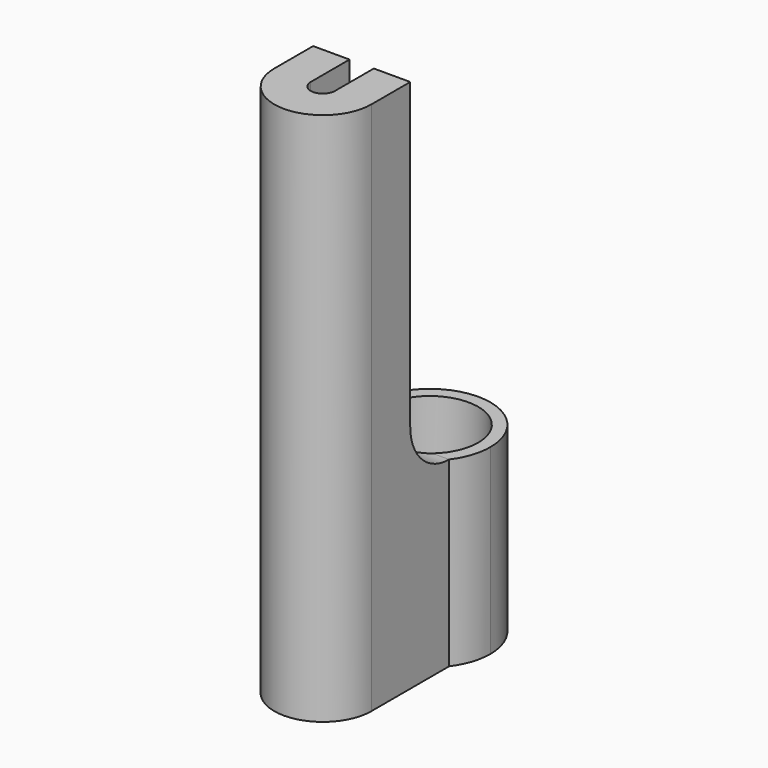
from build123d import *

# Parameters (mm, degrees)
F1_DEPTH = 15
F2_DEPTH = 15
F3_DEPTH = 44
F4_R     = 4


with BuildPart() as f1:
    # F0 (on Top) → F1 (new body)
    with BuildSketch(Plane.XY):
        with BuildLine():
            ThreePointArc((4, -3), (4.7434164903, -1.5811388301), (5, 0))
            ThreePointArc((5, 0), (-1.5811388301, 4.7434164903), (-4, -3))
            ThreePointArc((-4, -3), (-2.6742346142, -4.2247448714), (-1, -4.8989794856))
            Line((-1, -4.8989794856), (-1, -3.8729833462))
            ThreePointArc((-1, -3.8729833462), (-2.4494897428, 3.1622776602), (4, 0))
            ThreePointArc((4, 0), (3.1622776602, -2.4494897428), (1, -3.8729833462))
            Line((1, -3.8729833462), (1, -4.8989794856))
            ThreePointArc((1, -4.8989794856), (2.6742346142, -4.2247448714), (4, -3))
        make_face()
    extrude(amount=F1_DEPTH)

    # F0 (on Top) → F2 (join)
    with BuildSketch(Plane.XY):
        with BuildLine():
            Line((-1, -7), (-4, -7))
            Line((-4, -7), (-4, -11))
            ThreePointArc((-4, -11), (-3.1622776602, -8.5505102572), (-1, -7.1270166538))
            Line((-1, -7.1270166538), (-1, -7))
        make_face()
        with BuildLine():
            Line((4, -11), (4, -7))
            Line((4, -7), (1, -7))
            Line((1, -7), (1, -7.1270166538))
            ThreePointArc((1, -7.1270166538), (3.1622776602, -8.5505102572), (4, -11))
        make_face()
        with BuildLine():
            ThreePointArc((-1, -7.1270166538), (-3.1622776602, -8.5505102572), (-4, -11))
            ThreePointArc((-4, -11), (0, -15), (4, -11))
            ThreePointArc((4, -11), (3.1622776602, -8.5505102572), (1, -7.1270166538))
            Line((1, -7.1270166538), (1, -11))
            ThreePointArc((1, -11), (0, -12), (-1, -11))
            Line((-1, -11), (-1, -7.1270166538))
        make_face()
        with BuildLine():
            ThreePointArc((-1, -4.8989794856), (-2.6742346142, -4.2247448714), (-4, -3))
            Line((-4, -3), (-4, -7))
            Line((-4, -7), (-1, -7))
            Line((-1, -7), (-1, -4.8989794856))
        make_face()
        with BuildLine():
            Line((4, -7), (4, -3))
            ThreePointArc((4, -3), (2.6742346142, -4.2247448714), (1, -4.8989794856))
            Line((1, -4.8989794856), (1, -7))
            Line((1, -7), (4, -7))
        make_face()
    extrude(amount=F2_DEPTH)

    # F0 (on Top) → F3 (join)
    with BuildSketch(Plane.XY):
        with BuildLine():
            ThreePointArc((-1, -7.1270166538), (-3.1622776602, -8.5505102572), (-4, -11))
            ThreePointArc((-4, -11), (0, -15), (4, -11))
            ThreePointArc((4, -11), (3.1622776602, -8.5505102572), (1, -7.1270166538))
            Line((1, -7.1270166538), (1, -11))
            ThreePointArc((1, -11), (0, -12), (-1, -11))
            Line((-1, -11), (-1, -7.1270166538))
        make_face()
        with BuildLine():
            Line((-1, -7), (-4, -7))
            Line((-4, -7), (-4, -11))
            ThreePointArc((-4, -11), (-3.1622776602, -8.5505102572), (-1, -7.1270166538))
            Line((-1, -7.1270166538), (-1, -7))
        make_face()
        with BuildLine():
            Line((4, -11), (4, -7))
            Line((4, -7), (1, -7))
            Line((1, -7), (1, -7.1270166538))
            ThreePointArc((1, -7.1270166538), (3.1622776602, -8.5505102572), (4, -11))
        make_face()
    extrude(amount=F3_DEPTH)

    # F4
    f4_edges = [f1.edges().sort_by_distance(p)[0] for p in [
        (-2.5, -7, 15),
        (2.5, -7, 15),
    ]]
    fillet(f4_edges, radius=F4_R)


solid = f1.part
